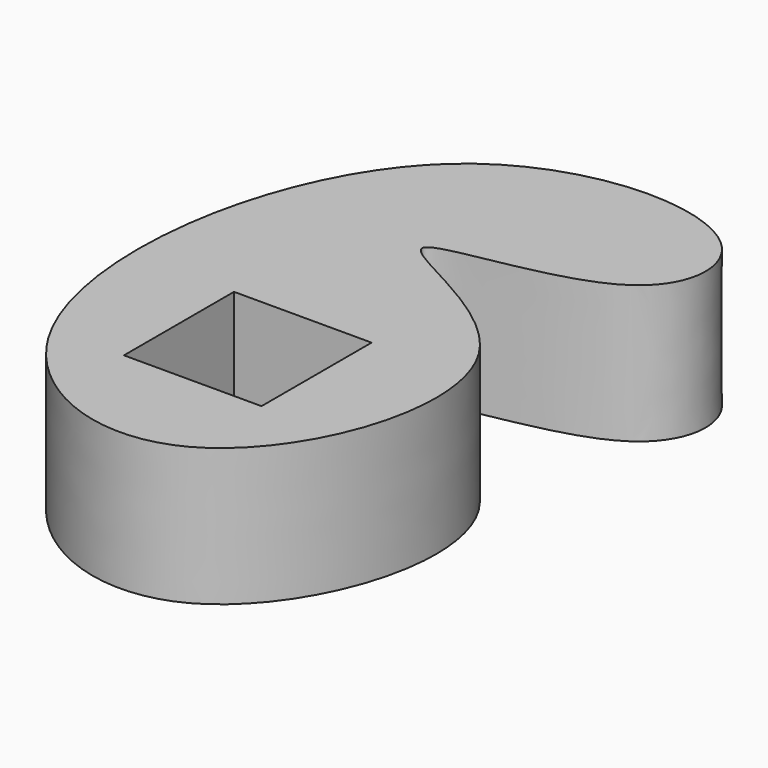
from build123d import *

# Parameters (mm, degrees)
F0_W     = 50
F0_H     = 50
F1_DEPTH = 50
F2_DEPTH = 25


with BuildPart() as f1:
    # F0 (on Top) → F1 (new body)
    with BuildSketch(Plane.XY):
        with BuildLine():
            add(Edge.make_bspline(
                [(60.3792965412, 98.5710024834), (42.2060294349, 86.0096106651), (-40.1965644334, 84.4330607153), (86.3941165874, 49.8678062028), (36.7383600609, -87.2362112373), (-81.4714928529, -37.0813750778), (-54.2603331237, 151.3131611491), (76.5749348917, 149.7758383835), (74.0705953, 108.0344504811), (60.3792965412, 98.5710024834)],
                knots=[0, 0, 0, 0, 0.1260747515, 0.255957581, 0.4142199492, 0.5584144924, 0.7545437389, 0.9050183394, 1, 1, 1, 1], degree=3))
        make_face()
        Rectangle(F0_W, F0_H, mode=Mode.SUBTRACT)
    extrude(amount=F1_DEPTH)

    # F0 (on Top) → F2 (join)
    with BuildSketch(Plane.XY):
        with BuildLine():
            add(Edge.make_bspline(
                [(60.3792965412, 98.5710024834), (42.2060294349, 86.0096106651), (-40.1965644334, 84.4330607153), (86.3941165874, 49.8678062028), (36.7383600609, -87.2362112373), (-81.4714928529, -37.0813750778), (-54.2603331237, 151.3131611491), (76.5749348917, 149.7758383835), (74.0705953, 108.0344504811), (60.3792965412, 98.5710024834)],
                knots=[0, 0, 0, 0, 0.1260747515, 0.255957581, 0.4142199492, 0.5584144924, 0.7545437389, 0.9050183394, 1, 1, 1, 1], degree=3))
        make_face()
        Rectangle(F0_W, F0_H, mode=Mode.SUBTRACT)
    extrude(amount=F2_DEPTH)


solid = f1.part
